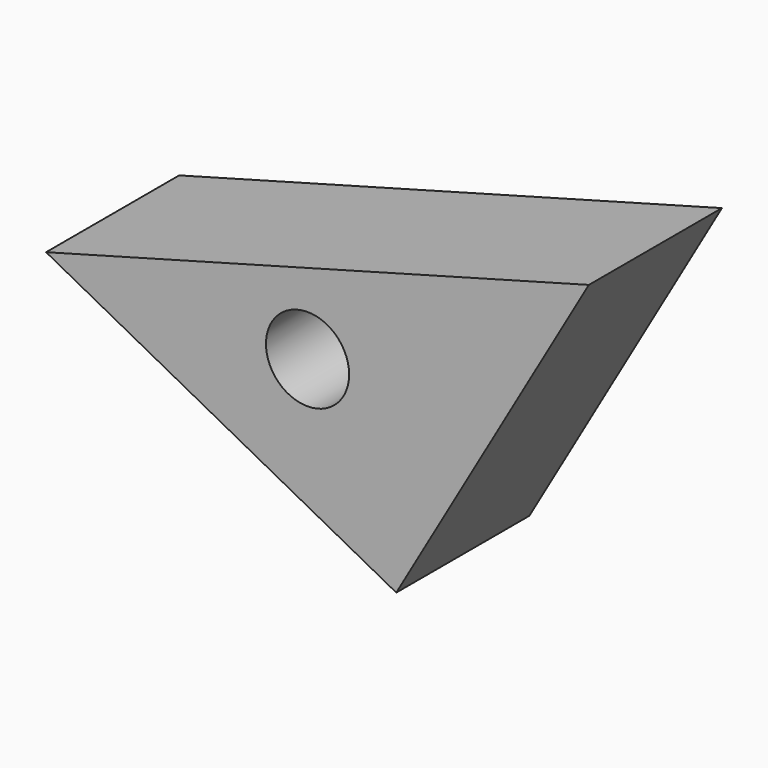
from build123d import *

# Parameters (mm, degrees)
F1_DEPTH = 25.4
F3_D     = 12.7


with BuildPart() as f1:
    # F0 (on Front) → F1 (new body)
    with BuildSketch(Plane.XZ):
        Polygon((-53.474587, 28.374966), (0, 0), (29.404096, 50.929388), align=None)
    extrude(amount=F1_DEPTH)

    # F3 (through all)
    with Locations(Plane(origin=(0, 0, 0), x_dir=(-1, 0, 0), z_dir=(0, 1, 0))):
        with Locations((13.550244, 26.979968)):
            Hole(F3_D / 2)


solid = f1.part
